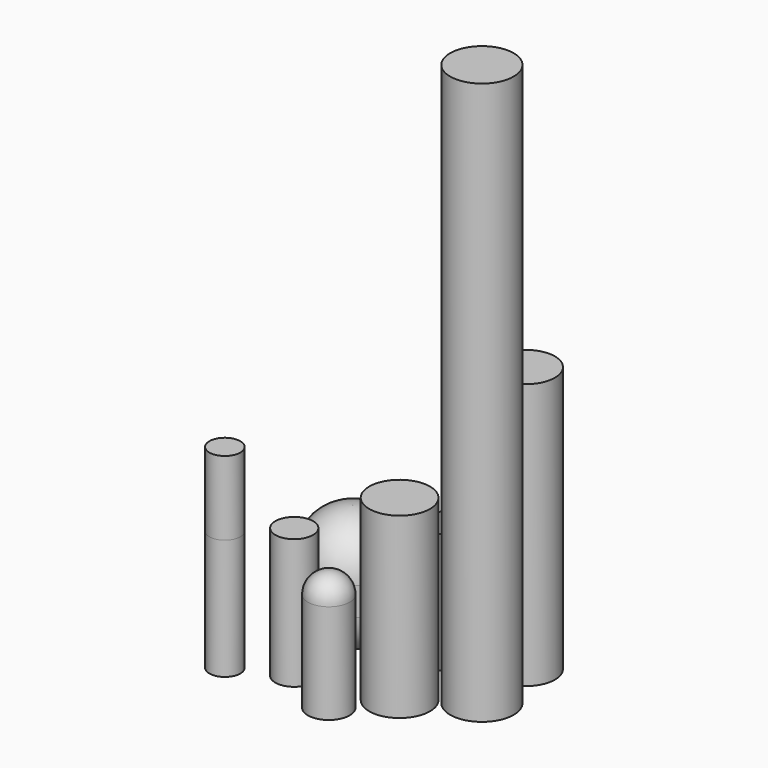
from build123d import *

# Parameters (mm, degrees)
F0_R      = 9.698472862
F1_DEPTH  = 25
F0_R_2    = 4.6802210525
F0_R_3    = 6.3118326062
F0_R_4    = 3.2106056795
F0_R_5    = 3.9128504698
F0_R_6    = 4.3409997881
F0_R_7    = 6.0379556938
F0_R_8    = 6.58726534
F2_R      = 4.304
F3_R      = 9.6568542495
F4_R      = 9.5
F5_DEPTH  = 30.2
F6_DEPTH  = 12.6
F7_DEPTH  = 15.4
F8_DEPTH  = 2
F9_DEPTH  = 91.7
F10_DEPTH = 12


with BuildPart() as f1:
    # F0 (on Top) → F1 (new body)
    with BuildSketch(Plane.XY):
        with Locations((-11.3882850856, 11.1936135218)):
            Circle(F0_R)
    extrude(amount=F1_DEPTH)

    # F3
    f3_edges = [f1.edges().sort_by_distance(p)[0] for p in [
        (-21.086758, 11.193614, 25),
    ]]
    fillet(f3_edges, radius=F3_R)

    # F4
    f4_edges = [f1.edges().sort_by_distance(p)[0] for p in [
        (-21.086758, 11.193614, 0),
    ]]
    fillet(f4_edges, radius=F4_R)


with BuildPart() as f1b:
    # F0 (on Top) → F1, piece 2 (new body)
    with BuildSketch(Plane.XY):
        with Locations((5.5481395684, 16.8390870094)):
            Circle(F0_R_2)
    extrude(amount=F1_DEPTH)


with BuildPart() as f1c:
    # F0 (on Top) → F1, piece 3 (new body)
    with BuildSketch(Plane.XY):
        with Locations((7.3001827113, 0)):
            Circle(F0_R_3)
    extrude(amount=F1_DEPTH)

    # F10 (add): a face of the model
    f10_faces = [f1c.faces().sort_by_distance(p)[0] for p in [
        (7.3001827113, 0, 25),
    ]]
    extrude(f10_faces, amount=F10_DEPTH)


with BuildPart() as f1d:
    # F0 (on Top) → F1, piece 4 (new body)
    with BuildSketch(Plane.XY):
        with Locations((-21.9005476683, -8.8575547561)):
            Circle(F0_R_4)
    extrude(amount=F1_DEPTH)

    # F6 (add): a face of the model
    f6_faces = [f1d.faces().sort_by_distance(p)[0] for p in [
        (-21.9005476683, -8.8575547561, 25),
    ]]
    extrude(f6_faces, amount=-F6_DEPTH)

    # F7 (add): a face of the model
    f7_faces = [f1d.faces().sort_by_distance(p)[0] for p in [
        (-21.9005476683, -8.8575547561, 25),
    ]]
    extrude(f7_faces, amount=F7_DEPTH)


with BuildPart() as f1e:
    # F0 (on Top) → F1, piece 5 (new body)
    with BuildSketch(Plane.XY):
        with Locations((-11.3882850856, -3.9907661267)):
            Circle(F0_R_5)
    extrude(amount=F1_DEPTH)

    # F8 (add): a face of the model
    f8_faces = [f1e.faces().sort_by_distance(p)[0] for p in [
        (-11.3882850856, -3.9907661267, 25),
    ]]
    extrude(f8_faces, amount=F8_DEPTH)


with BuildPart() as f1f:
    # F0 (on Top) → F1, piece 6 (new body)
    with BuildSketch(Plane.XY):
        with Locations((0, -9.2468978837)):
            Circle(F0_R_6)
    extrude(amount=F1_DEPTH)

    # F2
    f2_edges = [f1f.edges().sort_by_distance(p)[0] for p in [
        (-4.341, -9.246898, 25),
    ]]
    fillet(f2_edges, radius=F2_R)


with BuildPart() as f1g:
    # F0 (on Top) → F1, piece 7 (new body)
    with BuildSketch(Plane.XY):
        with Locations((16.4497457445, 21.3165320456)):
            Circle(F0_R_7)
    extrude(amount=F1_DEPTH)

    # F5 (add): a face of the model
    f5_faces = [f1g.faces().sort_by_distance(p)[0] for p in [
        (16.4497457445, 21.3165320456, 25),
    ]]
    extrude(f5_faces, amount=F5_DEPTH)


with BuildPart() as f1h:
    # F0 (on Top) → F1, piece 8 (new body)
    with BuildSketch(Plane.XY):
        with Locations((18.3964613825, 7.4948542751)):
            Circle(F0_R_8)
    extrude(amount=F1_DEPTH)

    # F9 (add): a face of the model
    f9_faces = [f1h.faces().sort_by_distance(p)[0] for p in [
        (18.3964613825, 7.4948542751, 25),
    ]]
    extrude(f9_faces, amount=F9_DEPTH)


solid = Compound([f1.part, f1b.part, f1c.part, f1d.part, f1e.part, f1f.part, f1g.part, f1h.part])
